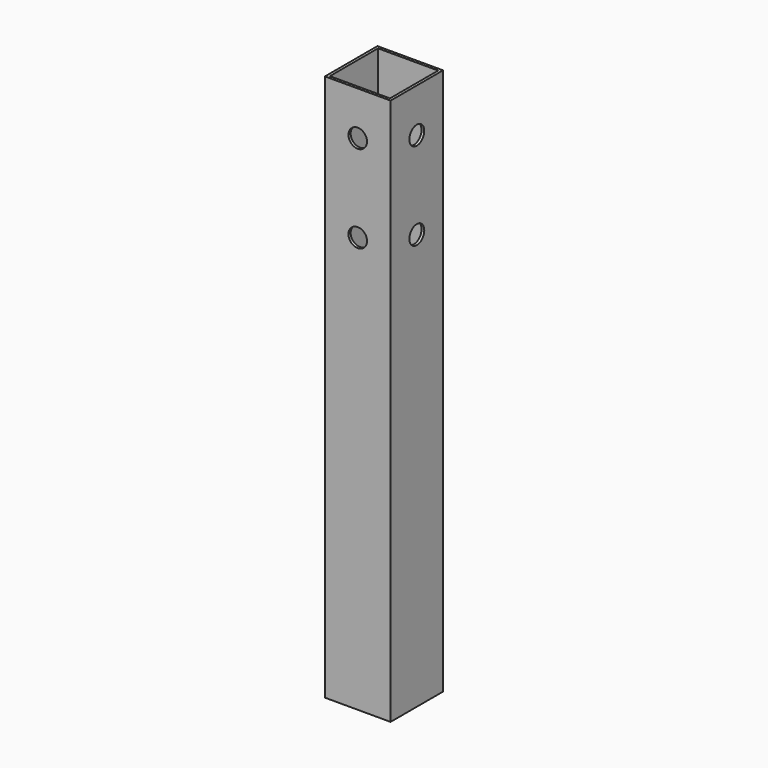
from build123d import *

# Parameters (mm, degrees)
F0_W     = 60
F0_H     = 60
F0_W_2   = 55
F0_H_2   = 55
F1_DEPTH = 500
F2_R     = 8.5
F3_DEPTH = 5
F4_R     = 8.5
F5_DEPTH = 5
F6_R     = 5.15
F7_DEPTH = 5
F8_R     = 5.15
F9_DEPTH = 5


with BuildPart() as f1:
    # F0 (on Top) → F1 (new body)
    with BuildSketch(Plane.XY):
        Rectangle(F0_W, F0_H)
        Rectangle(F0_W_2, F0_H_2, mode=Mode.SUBTRACT)
    extrude(amount=-F1_DEPTH)

    # F2 (on face) → F3 (cut)
    with BuildSketch(Plane.XZ.offset(30)):
        with Locations((0, -40)):
            Circle(F2_R)
        with Locations((0, -120)):
            Circle(F2_R)
    extrude(amount=-F3_DEPTH, mode=Mode.SUBTRACT)

    # F4 (on face) → F5 (cut)
    with BuildSketch(Plane.YZ.offset(30)):
        with Locations((0, -40)):
            Circle(F4_R)
        with Locations((0, -120)):
            Circle(F4_R)
    extrude(amount=-F5_DEPTH, mode=Mode.SUBTRACT)

    # F6 (on face) → F7 (cut)
    with BuildSketch(Plane(origin=(-30, 0, 0), x_dir=(0, -1, 0), z_dir=(-1, 0, 0))):
        with Locations((0, -40)):
            Circle(F6_R)
        with Locations((0, -120)):
            Circle(F6_R)
    extrude(amount=-F7_DEPTH, mode=Mode.SUBTRACT)

    # F8 (on face) → F9 (cut)
    with BuildSketch(Plane(origin=(0, 30, 0), x_dir=(-1, 0, 0), z_dir=(0, 1, 0))):
        with Locations((0, -40)):
            Circle(F8_R)
        with Locations((0, -120)):
            Circle(F8_R)
    extrude(amount=-F9_DEPTH, mode=Mode.SUBTRACT)


solid = f1.part
